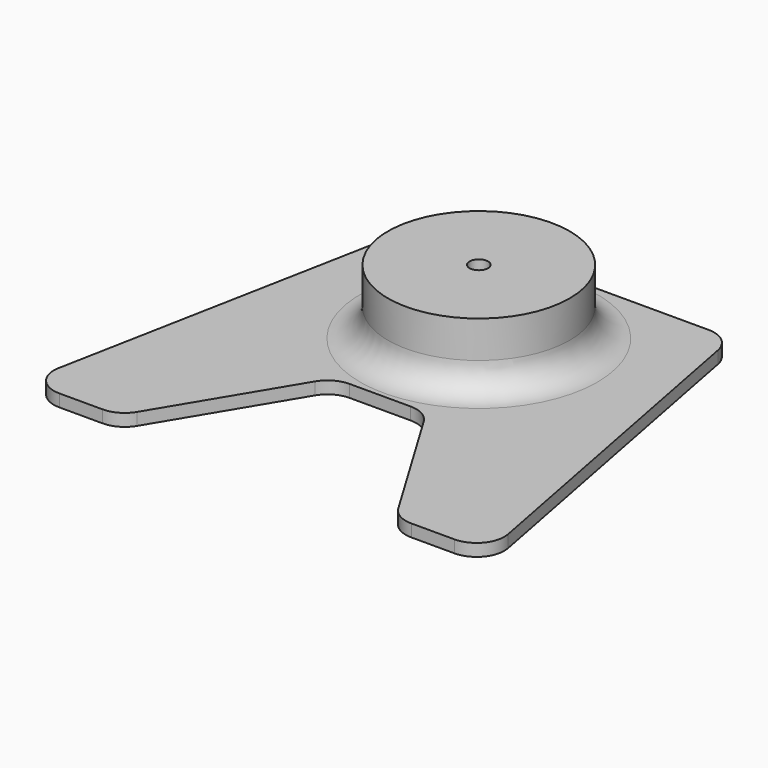
from build123d import *

# Parameters (mm, degrees)
SKETCH_R      = 3
PAD_DEPTH     = 4
SKETCH001_R   = 29.5
SKETCH001_R_2 = 3
PAD001_DEPTH  = 25
SKETCH002_R   = 11.5
SKETCH002_R_2 = 3
POCKET_DEPTH  = 18
FILLET_R      = 9
FILLET001_R   = 9


with BuildPart() as part:
    # Sketch → Pad (new body)
    with BuildSketch(Plane.XY):
        Polygon((75, -90), (45, -90), (15, -40), (-15, -40), (-45, -90), (-75, -90), (-50, 40), (50, 40), align=None)
        Circle(SKETCH_R, mode=Mode.SUBTRACT)
    extrude(amount=PAD_DEPTH)

    # Sketch001 → Pad001 (join)
    with BuildSketch(Plane.XY):
        Circle(SKETCH001_R)
        Circle(SKETCH001_R_2, mode=Mode.SUBTRACT)
    extrude(amount=PAD001_DEPTH)

    # Sketch002 → Pocket (cut)
    with BuildSketch(Plane.XY):
        Circle(SKETCH002_R)
        Circle(SKETCH002_R_2, mode=Mode.SUBTRACT)
    extrude(amount=POCKET_DEPTH, mode=Mode.SUBTRACT)

    # Fillet
    fillet_edges = [part.edges().sort_by_distance(p)[0] for p in [
        (-29.5, 0, 4),
    ]]
    fillet(fillet_edges, radius=FILLET_R)

    # Fillet001
    fillet001_edges = [part.edges().sort_by_distance(p)[0] for p in [
        (-75, -90, 2),
        (-45, -90, 2),
        (-15, -40, 2),
        (15, -40, 2),
        (45, -90, 2),
        (75, -90, 2),
        (50, 40, 2),
        (-50, 40, 2),
    ]]
    fillet(fillet001_edges, radius=FILLET001_R)


solid = part.part
